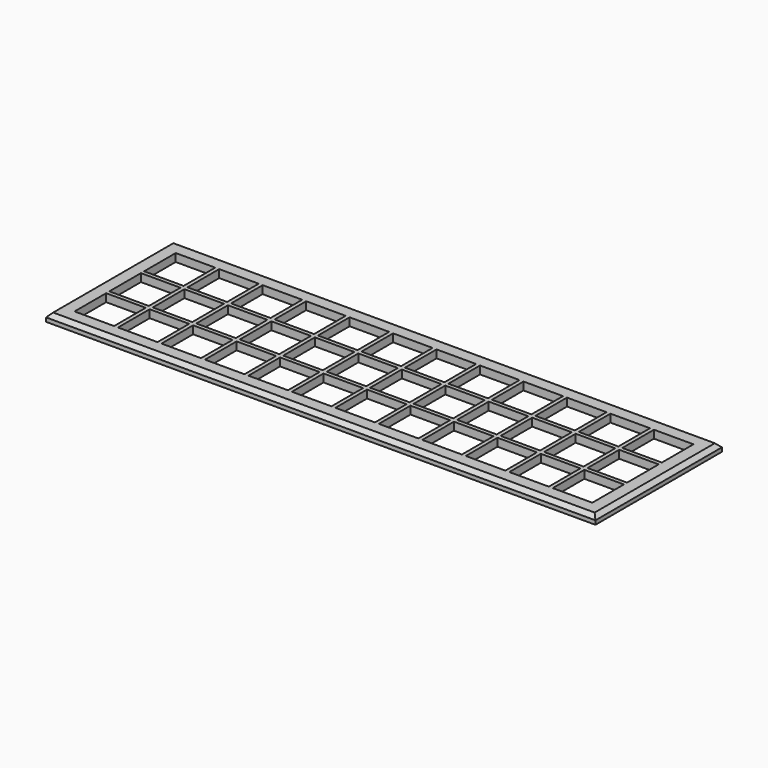
from build123d import *

# Parameters (mm, degrees)
F0_W     = 139
F0_H     = 40
F0_W_2   = 10
F0_H_2   = 10
F1_DEPTH = 2
F2_SIZE  = 1


with BuildPart() as f1:
    # F0 (on Top) → F1 (new body)
    with BuildSketch(Plane.XY):
        with Locations((60.5, 11)):
            Rectangle(F0_W, F0_H)
        Rectangle(F0_W_2, F0_H_2, mode=Mode.SUBTRACT)
        with Locations((11, 0)):
            Rectangle(F0_W_2, F0_H_2, mode=Mode.SUBTRACT)
        with Locations((22, 0)):
            Rectangle(F0_W_2, F0_H_2, mode=Mode.SUBTRACT)
        with Locations((33, 0)):
            Rectangle(F0_W_2, F0_H_2, mode=Mode.SUBTRACT)
        with Locations((44, 0)):
            Rectangle(F0_W_2, F0_H_2, mode=Mode.SUBTRACT)
        with Locations((55, 0)):
            Rectangle(F0_W_2, F0_H_2, mode=Mode.SUBTRACT)
        with Locations((66, 0)):
            Rectangle(F0_W_2, F0_H_2, mode=Mode.SUBTRACT)
        with Locations((77, 0)):
            Rectangle(F0_W_2, F0_H_2, mode=Mode.SUBTRACT)
        with Locations((88, 0)):
            Rectangle(F0_W_2, F0_H_2, mode=Mode.SUBTRACT)
        with Locations((99, 0)):
            Rectangle(F0_W_2, F0_H_2, mode=Mode.SUBTRACT)
        with Locations((110, 0)):
            Rectangle(F0_W_2, F0_H_2, mode=Mode.SUBTRACT)
        with Locations((121, 0)):
            Rectangle(F0_W_2, F0_H_2, mode=Mode.SUBTRACT)
        with Locations((0, 11)):
            Rectangle(F0_W_2, F0_H_2, mode=Mode.SUBTRACT)
        with Locations((11, 11)):
            Rectangle(F0_W_2, F0_H_2, mode=Mode.SUBTRACT)
        with Locations((22, 11)):
            Rectangle(F0_W_2, F0_H_2, mode=Mode.SUBTRACT)
        with Locations((33, 11)):
            Rectangle(F0_W_2, F0_H_2, mode=Mode.SUBTRACT)
        with Locations((44, 11)):
            Rectangle(F0_W_2, F0_H_2, mode=Mode.SUBTRACT)
        with Locations((55, 11)):
            Rectangle(F0_W_2, F0_H_2, mode=Mode.SUBTRACT)
        with Locations((0, 22)):
            Rectangle(F0_W_2, F0_H_2, mode=Mode.SUBTRACT)
        with Locations((11, 22)):
            Rectangle(F0_W_2, F0_H_2, mode=Mode.SUBTRACT)
        with Locations((22, 22)):
            Rectangle(F0_W_2, F0_H_2, mode=Mode.SUBTRACT)
        with Locations((33, 22)):
            Rectangle(F0_W_2, F0_H_2, mode=Mode.SUBTRACT)
        with Locations((44, 22)):
            Rectangle(F0_W_2, F0_H_2, mode=Mode.SUBTRACT)
        with Locations((55, 22)):
            Rectangle(F0_W_2, F0_H_2, mode=Mode.SUBTRACT)
        with Locations((66, 11)):
            Rectangle(F0_W_2, F0_H_2, mode=Mode.SUBTRACT)
        with Locations((77, 11)):
            Rectangle(F0_W_2, F0_H_2, mode=Mode.SUBTRACT)
        with Locations((88, 11)):
            Rectangle(F0_W_2, F0_H_2, mode=Mode.SUBTRACT)
        with Locations((99, 11)):
            Rectangle(F0_W_2, F0_H_2, mode=Mode.SUBTRACT)
        with Locations((110, 11)):
            Rectangle(F0_W_2, F0_H_2, mode=Mode.SUBTRACT)
        with Locations((121, 11)):
            Rectangle(F0_W_2, F0_H_2, mode=Mode.SUBTRACT)
        with Locations((66, 22)):
            Rectangle(F0_W_2, F0_H_2, mode=Mode.SUBTRACT)
        with Locations((77, 22)):
            Rectangle(F0_W_2, F0_H_2, mode=Mode.SUBTRACT)
        with Locations((88, 22)):
            Rectangle(F0_W_2, F0_H_2, mode=Mode.SUBTRACT)
        with Locations((99, 22)):
            Rectangle(F0_W_2, F0_H_2, mode=Mode.SUBTRACT)
        with Locations((110, 22)):
            Rectangle(F0_W_2, F0_H_2, mode=Mode.SUBTRACT)
        with Locations((121, 22)):
            Rectangle(F0_W_2, F0_H_2, mode=Mode.SUBTRACT)
    extrude(amount=F1_DEPTH)

    # F2
    f2_edges = [f1.edges().sort_by_distance(p)[0] for p in [
        (60.5, -9, 2),
        (-9, 11, 2),
        (60.5, 31, 2),
        (130, 11, 2),
    ]]
    chamfer(f2_edges, length=F2_SIZE)


solid = f1.part
